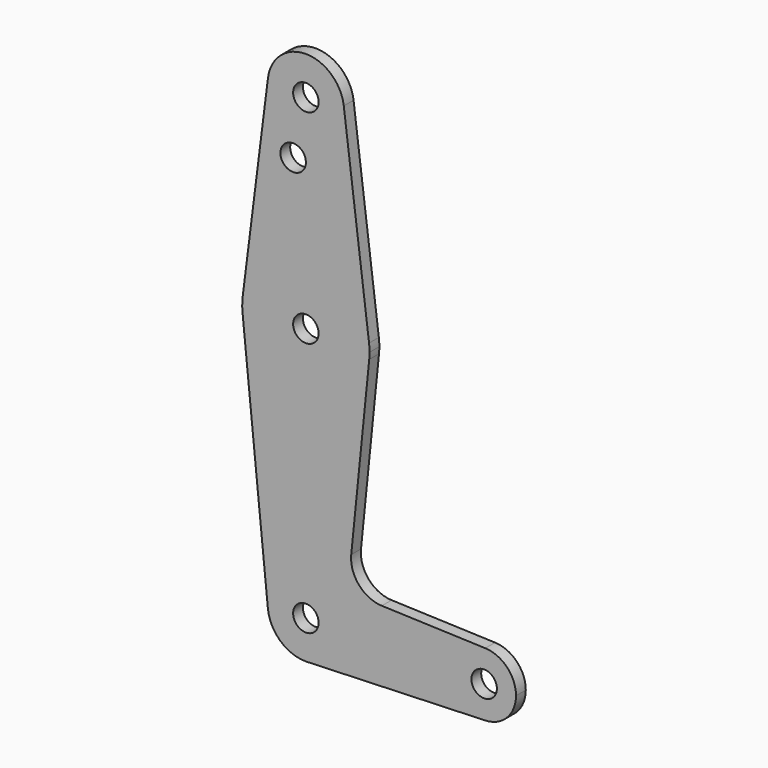
from build123d import *

# Parameters (mm, degrees)
F0_R     = 3.175
F1_DEPTH = 3.048


with BuildPart() as f1:
    # F0 (on Front) → F1 (new body)
    with BuildSketch(Plane.XZ):
        with BuildLine():
            ThreePointArc((-9.450293, 35.806768), (-0.596483, 25.109838), (9.525, 34.616143))
            ThreePointArc((9.525, 34.616143), (9.506305, 35.212627), (9.450293, 35.806768))
            ThreePointArc((9.450293, 35.806768), (0, 44.141143), (-9.450293, 35.806768))
        make_face()
        with Locations((0, 34.616143)):
            Circle(F0_R, mode=Mode.SUBTRACT)
        with BuildLine():
            ThreePointArc((9.450293, 35.806768), (9.506305, 35.212627), (9.525, 34.616143))
            ThreePointArc((9.525, 34.616143), (-0.596483, 25.109838), (-9.450293, 35.806768))
            Line((-9.450293, 35.806768), (-15.750488, -14.199482))
            ThreePointArc((-15.750488, -14.199482), (0, -0.308857), (15.750488, -14.199482))
            Line((15.750488, -14.199482), (9.450293, 35.806768))
        make_face()
        with Locations((-3.175, 20.341343)):
            Circle(F0_R, mode=Mode.SUBTRACT)
        with BuildLine():
            ThreePointArc((15.875, -16.183857), (15.843841, -15.189718), (15.750488, -14.199482))
            ThreePointArc((15.750488, -14.199482), (0, -0.308857), (-15.750488, -14.199482))
            ThreePointArc((-15.750488, -14.199482), (-15.873744, -15.984151), (-15.795426, -17.771357))
            ThreePointArc((-15.795426, -17.771357), (-0.006091, -32.058855), (15.794203, -17.783476))
            ThreePointArc((15.794203, -17.783476), (15.854788, -16.984686), (15.875, -16.183857))
        make_face()
        with Locations((0, -16.183857)):
            Circle(F0_R, mode=Mode.SUBTRACT)
        with BuildLine():
            ThreePointArc((15.794203, -17.783476), (-0.006091, -32.058855), (-15.795426, -17.771357))
            Line((-15.795426, -17.771357), (-9.477255, -80.636357))
            ThreePointArc((-9.477255, -80.636357), (-0.476848, -70.1708), (9.525, -79.683857))
            ThreePointArc((9.525, -79.683857), (6.970557, -86.175156), (0.677344, -89.184742))
            Line((0.677344, -89.184742), (44.732405, -87.616331))
            ThreePointArc((44.732405, -87.616331), (36.5125, -79.683318), (44.733482, -71.75142))
            Line((44.733482, -71.75142), (18.933378, -70.8294))
            ThreePointArc((18.933378, -70.8294), (13.224973, -68.108976), (11.307577, -62.083182))
            Line((11.307577, -62.083182), (15.794203, -17.783476))
        make_face()
        with BuildLine():
            ThreePointArc((9.525, -79.683857), (-0.476848, -70.1708), (-9.477255, -80.636357))
            ThreePointArc((-9.477255, -80.636357), (-6.389564, -86.747786), (0, -89.208857))
            Line((0, -89.208857), (0.677344, -89.184742))
            ThreePointArc((0.677344, -89.184742), (6.970557, -86.175156), (9.525, -79.683857))
        make_face()
        with Locations((0, -79.683857)):
            Circle(F0_R, mode=Mode.SUBTRACT)
        with BuildLine():
            Line((0.677344, -89.184742), (0, -89.208857))
            ThreePointArc((0, -89.208857), (0.338886, -89.202826), (0.677344, -89.184742))
        make_face()
        with BuildLine():
            ThreePointArc((52.3875, -79.683857), (50.162007, -74.172334), (44.733482, -71.75142))
            ThreePointArc((44.733482, -71.75142), (36.5125, -79.683318), (44.732405, -87.616331))
            ThreePointArc((44.732405, -87.616331), (50.161633, -85.195767), (52.3875, -79.683857))
        make_face()
        with Locations((44.45, -79.683857)):
            Circle(F0_R, mode=Mode.SUBTRACT)
    extrude(amount=F1_DEPTH)


solid = f1.part
